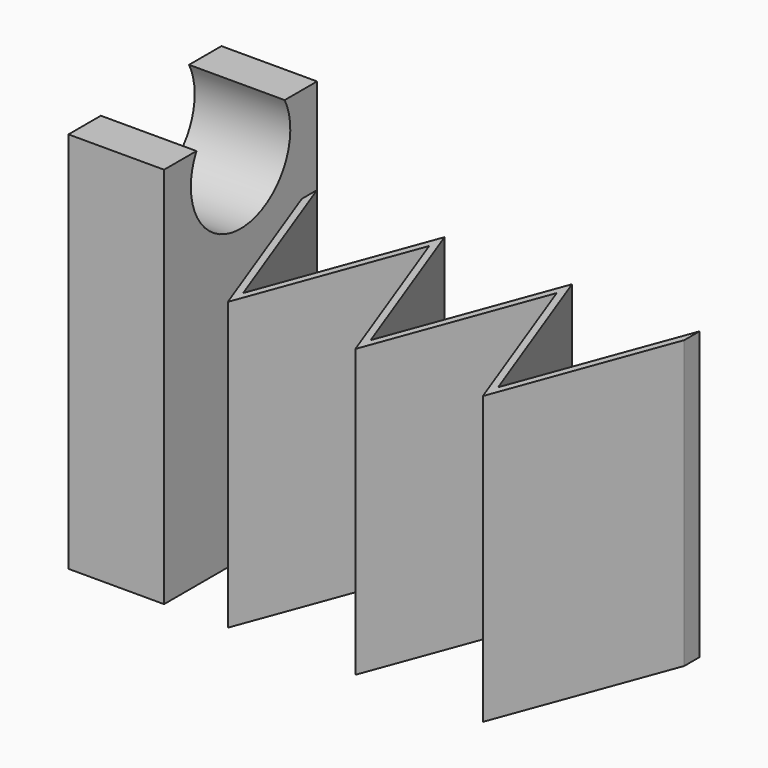
from build123d import *

# Parameters (mm, degrees)
PAD011_DEPTH    = 4
PAD012_DEPTH    = 4
POCKET006_DEPTH = 1
SKETCH020_R     = 0.65
POCKET007_DEPTH = 1.001


with BuildPart() as part:
    # Sketch013 → Pad011 (new body)
    with BuildSketch(Plane.XY):
        with BuildLine():
            ThreePointArc((0, -0.5), (0.133975, 0), (0, 0.5))
            Line((0, 0.5), (0, 1))
            Line((0, 1), (1, 1))
            Line((1, 1), (1, -1))
            Line((1, -1), (0, -1))
            Line((0, -1), (0, -0.5))
        make_face()
    extrude(amount=-PAD011_DEPTH)

    # Sketch014 → Pad012 (join)
    with BuildSketch(Plane.XY):
        Polygon((1, 1), (1.666667, -0.8), (2.333333, 1), (3, -0.8), (3.666667, 1), (4.333333, -0.8), (5, 1), (5, 0.8), (4.333333, -1), (3.666667, 0.8), (3, -1), (2.333333, 0.8), (1.666667, -1), (1, 0.8), align=None)
    extrude(amount=-PAD012_DEPTH)

    # Pad012 Face8 → Pocket006 (cut)
    with BuildSketch(Plane(origin=(3, 0, 0), x_dir=(0, 1, 0), z_dir=(0, 0, 1))):
        Polygon((1, 2), (0.8, 2), (-1, 1.333333), (0.8, 0.666667), (-1, 0), (0.8, -0.666667), (-1, -1.333333), (0.8, -2), (1, -2), (-0.8, -1.333333), (1, -0.666667), (-0.8, 0), (1, 0.666667), (-0.8, 1.333333), align=None)
    extrude(amount=-POCKET006_DEPTH, mode=Mode.SUBTRACT)

    # Sketch020 (on Face9 of Pocket006) → Pocket007 (cut, through all)
    with BuildSketch(Plane.YZ.offset(1)):
        with Locations((0, -0.3)):
            Circle(SKETCH020_R)
    extrude(amount=-POCKET007_DEPTH, mode=Mode.SUBTRACT)


solid = part.part
